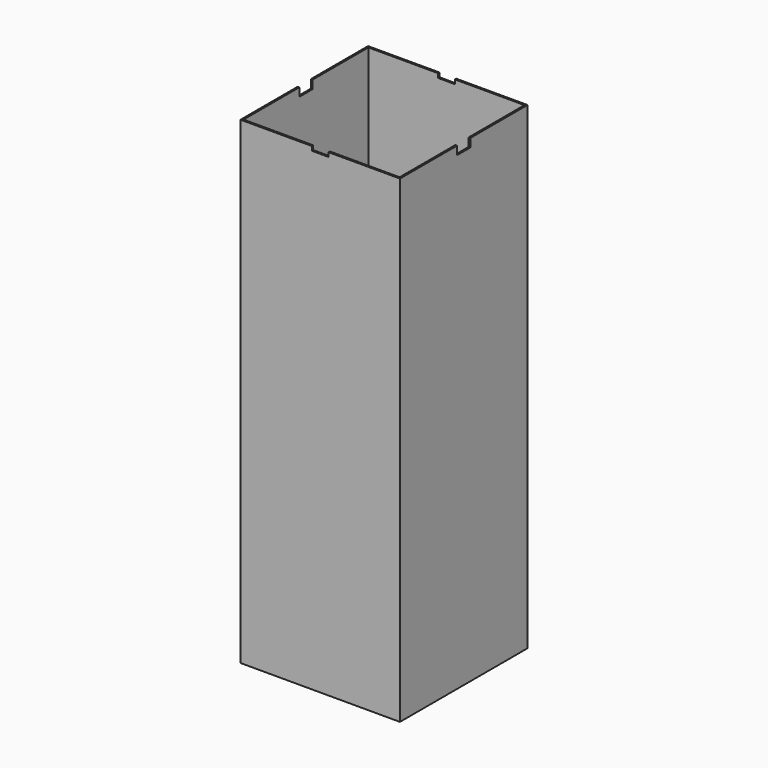
from build123d import *

# Parameters (mm, degrees)
F0_W     = 76.2
F0_H     = 76.2
F1_DEPTH = 228.6
F2_T     = -0.8
F3_R     = 1
F4_DEPTH = 25.4
F5_W     = 8
F5_H     = 2
F6_DEPTH = 76.201
F7_W     = 8
F7_H     = 4
F8_DEPTH = 76.201


with BuildPart() as f1:
    # F0 (on Top) → F1 (new body)
    with BuildSketch(Plane.XY):
        Rectangle(F0_W, F0_H)
    extrude(amount=F1_DEPTH)

    # F2
    f2_openings = [f1.faces().sort_by_distance(p)[0] for p in [
        (0, 0, 228.6),
    ]]
    offset(amount=F2_T, openings=f2_openings)

    # F3 (on face) → F4 (cut)
    with BuildSketch(Plane.XY.offset(0.8)):
        Circle(F3_R)
    extrude(amount=-F4_DEPTH, mode=Mode.SUBTRACT)

    # F5 (on face) → F6 (cut, through all)
    with BuildSketch(Plane.XZ.offset(38.1)):
        with Locations((0, 227.6)):
            Rectangle(F5_W, F5_H)
    extrude(amount=-F6_DEPTH, mode=Mode.SUBTRACT)

    # F7 (on face) → F8 (cut, through all)
    with BuildSketch(Plane.YZ.offset(38.1)):
        with Locations((0, 226.6)):
            Rectangle(F7_W, F7_H)
    extrude(amount=-F8_DEPTH, mode=Mode.SUBTRACT)


solid = f1.part
